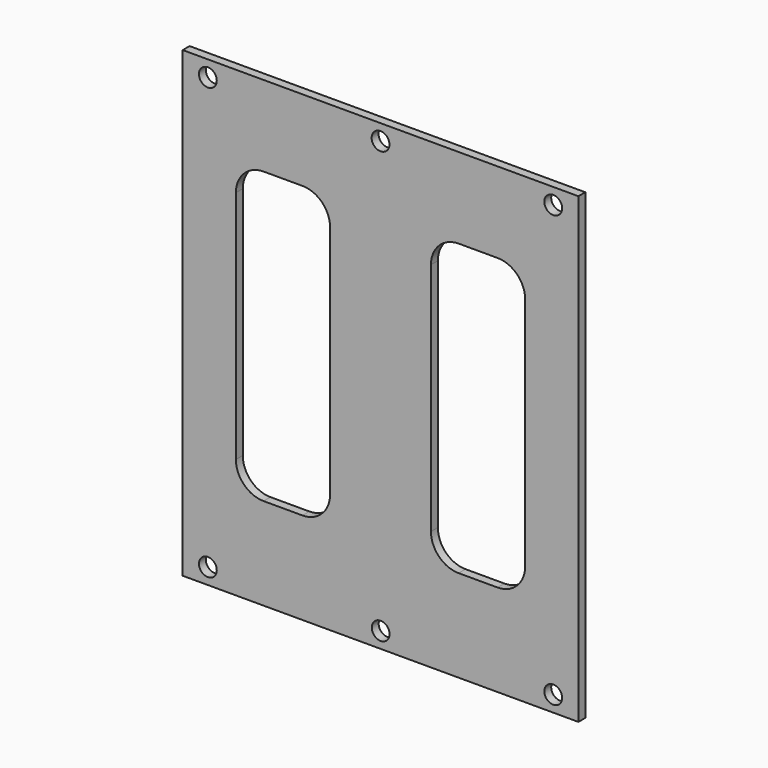
from build123d import *

# Parameters (mm, degrees)
F0_W     = 72.7456
F0_H     = 85.09
F0_R     = 1.6383
F0_W_2   = 17.3228
F0_H_2   = 53.34
F1_DEPTH = 1.5875
F2_R     = 5.08


with BuildPart() as f1:
    # F0 (on Front) → F1 (new body)
    with BuildSketch(Plane.XZ):
        with Locations((0, 6.819942)):
            Rectangle(F0_W, F0_H)
        with Locations((-31.75, -32.804058)):
            Circle(F0_R, mode=Mode.SUBTRACT)
        with Locations((0.020847, -32.804058)):
            Circle(F0_R, mode=Mode.SUBTRACT)
        with Locations((31.75, -32.804058)):
            Circle(F0_R, mode=Mode.SUBTRACT)
        with Locations((-17.931937, 7.867827)):
            Rectangle(F0_W_2, F0_H_2, mode=Mode.SUBTRACT)
        with Locations((-31.75, 46.443942)):
            Circle(F0_R, mode=Mode.SUBTRACT)
        with Locations((0, 46.443942)):
            Circle(F0_R, mode=Mode.SUBTRACT)
        with Locations((17.931937, 7.867827)):
            Rectangle(F0_W_2, F0_H_2, mode=Mode.SUBTRACT)
        with Locations((31.75, 46.443942)):
            Circle(F0_R, mode=Mode.SUBTRACT)
    extrude(amount=F1_DEPTH)

    # F2
    f2_edges = [f1.edges().sort_by_distance(p)[0] for p in [
        (-26.593337, -0.79375, 34.537827),
        (-9.270537, -0.79375, 34.537827),
        (26.593337, -0.79375, -18.802173),
        (9.270537, -0.79375, -18.802173),
        (9.270537, -0.79375, 34.537827),
        (26.593337, -0.79375, 34.537827),
        (-9.270537, -0.79375, -18.802173),
        (-26.593337, -0.79375, -18.802173),
    ]]
    fillet(f2_edges, radius=F2_R)


solid = f1.part
